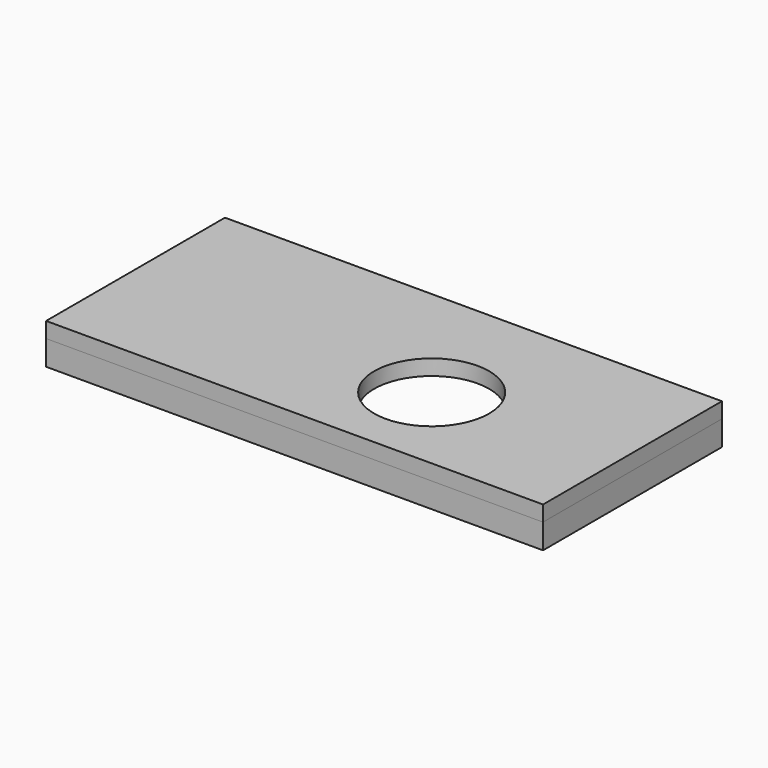
from build123d import *

# Parameters (mm, degrees)
F0_W     = 800
F0_H     = 360
F0_R     = 92.5
F1_DEPTH = 25
F3_DEPTH = 40


with BuildPart() as f1:
    # F0 (on Top) → F1 (new body)
    with BuildSketch(Plane.XY):
        with Locations((400, -180)):
            Rectangle(F0_W, F0_H)
        with Locations((500, -209.09)):
            Circle(F0_R, mode=Mode.SUBTRACT)
    extrude(amount=F1_DEPTH)


with BuildPart() as f3:
    # F2 (on face) → F3 (new body)
    with BuildSketch(Plane(origin=(0, 0, 0), x_dir=(1, 0, 0), z_dir=(0, 0, -1))):
        Polygon((0, 0), (25, 0), (25, 335), (775, 335), (775, 0), (800, 0), (800, 360), (0, 360), align=None)
    extrude(amount=F3_DEPTH)


solid = Compound([f1.part, f3.part])
